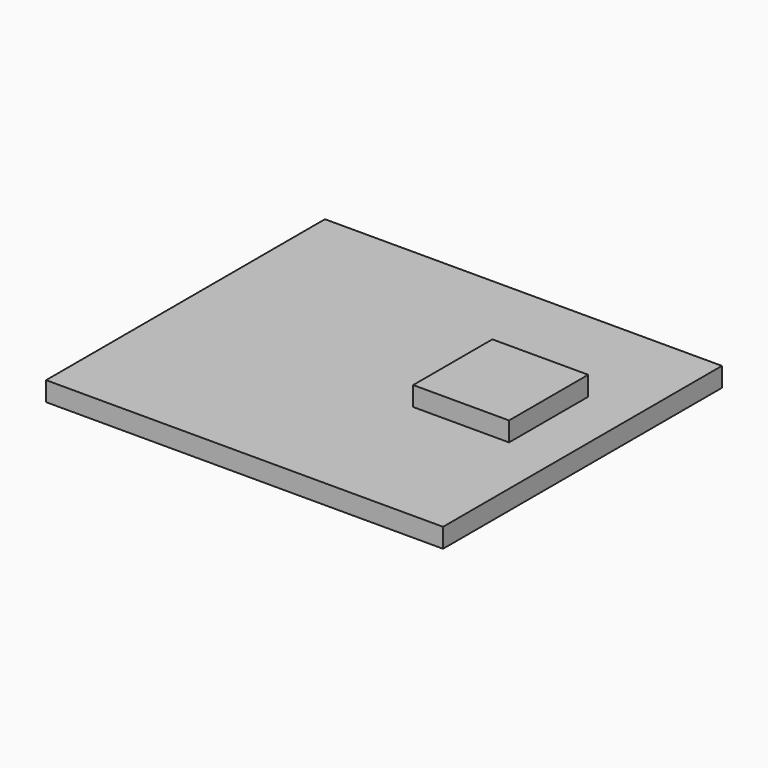
from build123d import *

# Parameters (mm, degrees)
SKETCH_W     = 41
SKETCH_H     = 36
PAD_DEPTH    = 2
SKETCH001_W  = 9.9
SKETCH001_H  = 10.22
PAD001_DEPTH = 2


with BuildPart() as part:
    # Sketch → Pad (new body)
    with BuildSketch(Plane.XY):
        Rectangle(SKETCH_W, SKETCH_H)
    extrude(amount=PAD_DEPTH)

    # Sketch001 (on Face6 of Pad) → Pad001 (join)
    with BuildSketch(Plane.XY.offset(2)):
        with Locations((10.5, 1.94)):
            Rectangle(SKETCH001_W, SKETCH001_H)
    extrude(amount=PAD001_DEPTH)


solid = part.part
